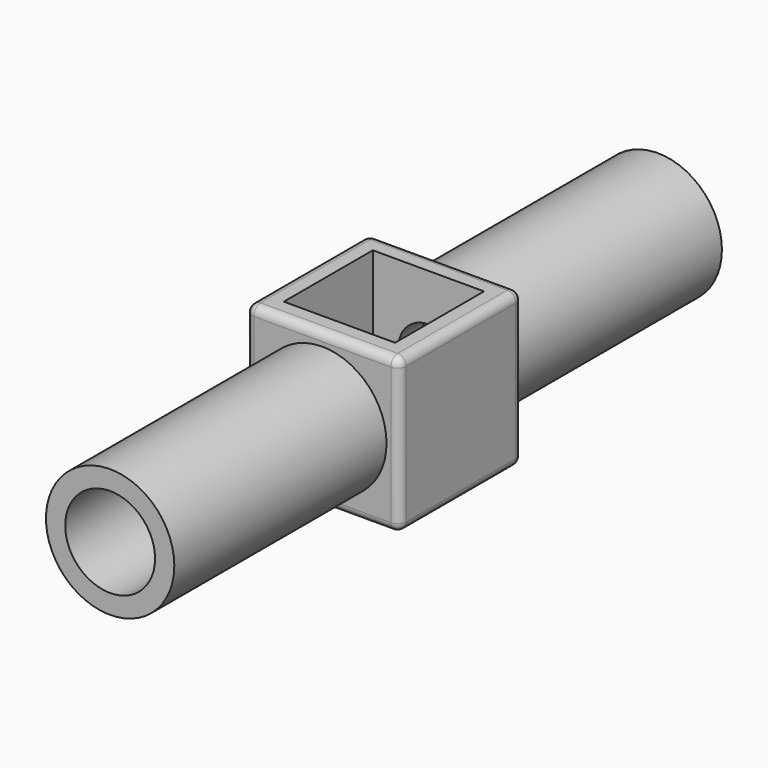
from build123d import *

# Parameters (mm, degrees)
SKETCH_R             = 7.5
PAD_DEPTH            = 40
SKETCH001_R          = 5.25
POCKET_DEPTH         = 30
SKETCH002_R          = 5.25
POCKET001_DEPTH      = 30
SKETCH004_W          = 18
SKETCH004_H          = 18
PAD001_DEPTH         = 9
SKETCH005_R          = 3.5
POCKET002_DEPTH      = 40.001
POCKET002_DEPTH_BACK = 40.001
SKETCH006_R          = 3
POCKET003_DEPTH      = 9.001
POCKET003_DEPTH_BACK = 9.001
SKETCH008_W          = 13
SKETCH008_H          = 13
POCKET004_DEPTH      = 16.5
FILLET_R             = 1


with BuildPart() as part:
    # Sketch → Pad (new body, symmetric)
    with BuildSketch(Plane.XZ):
        Circle(SKETCH_R)
    extrude(amount=PAD_DEPTH, both=True)

    # Sketch001 → Pocket (cut)
    with BuildSketch(Plane.XZ.offset(40)):
        Circle(SKETCH001_R)
    extrude(amount=-POCKET_DEPTH, mode=Mode.SUBTRACT)

    # Sketch002 → Pocket001 (cut)
    with BuildSketch(Plane.XZ.offset(-40)):
        Circle(SKETCH002_R)
    extrude(amount=POCKET001_DEPTH, mode=Mode.SUBTRACT)

    # Sketch004 → Pad001 (join, symmetric)
    with BuildSketch(Plane.YZ):
        Rectangle(SKETCH004_W, SKETCH004_H)
    extrude(amount=PAD001_DEPTH, both=True)

    # Sketch005 → Pocket002 (cut, two sides)
    with BuildSketch(Plane.XZ) as pocket002_sk:
        Circle(SKETCH005_R)
    extrude(amount=-POCKET002_DEPTH, mode=Mode.SUBTRACT)
    extrude(pocket002_sk.sketch, amount=POCKET002_DEPTH_BACK, mode=Mode.SUBTRACT)

    # Sketch006 → Pocket003 (cut, two sides)
    with BuildSketch(Plane.XY) as pocket003_sk:
        Circle(SKETCH006_R)
    extrude(amount=-POCKET003_DEPTH, mode=Mode.SUBTRACT)
    extrude(pocket003_sk.sketch, amount=POCKET003_DEPTH_BACK, mode=Mode.SUBTRACT)

    # Sketch008 → Pocket004 (cut)
    with BuildSketch(Plane.XY.offset(9)):
        Rectangle(SKETCH008_W, SKETCH008_H)
    extrude(amount=-POCKET004_DEPTH, mode=Mode.SUBTRACT)

    # Fillet
    fillet_edges = [part.edges().sort_by_distance(p)[0] for p in [
        (-9, 0, -9),
        (0, -9, -9),
        (0, 9, -9),
        (9, 0, -9),
        (9, 9, 0),
        (9, -9, 0),
        (9, 0, 9),
        (-9, 9, 0),
        (-9, -9, 0),
        (-9, 0, 9),
        (0, 9, 9),
        (0, -9, 9),
    ]]
    fillet(fillet_edges, radius=FILLET_R)


solid = part.part
